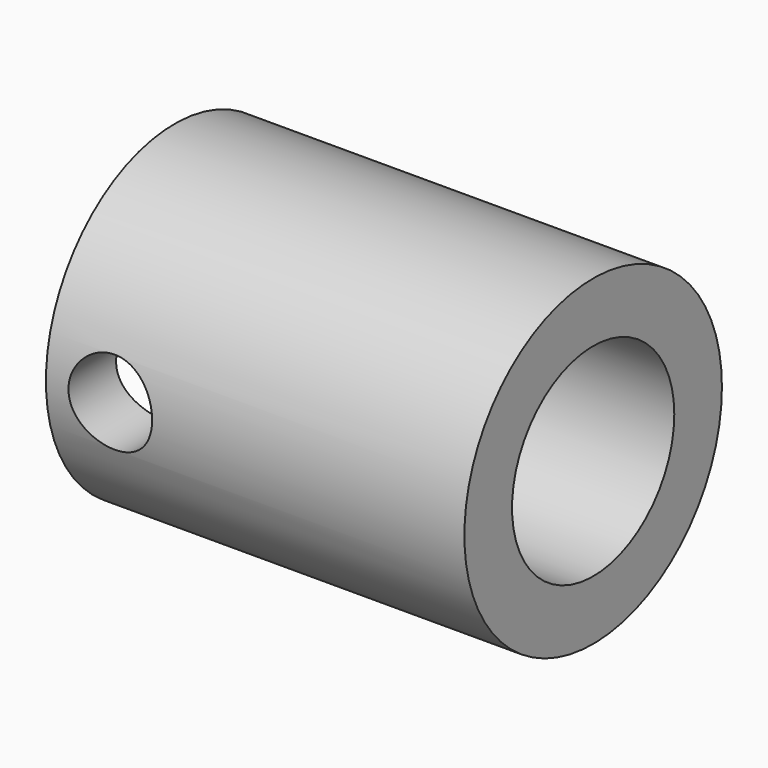
from build123d import *

# Parameters (mm, degrees)
F0_R          = 5
F0_R_2        = 3.15
F1_DEPTH      = 13
F2_R          = 1.3
F3_DEPTH      = 5.001
F3_DEPTH_BACK = 5.001


with BuildPart() as f1:
    # F0 (on Right) → F1 (new body)
    with BuildSketch(Plane.YZ):
        Circle(F0_R)
        Circle(F0_R_2, mode=Mode.SUBTRACT)
    extrude(amount=F1_DEPTH)

    # F2 (on Front) → F3 (cut, two sides)
    with BuildSketch(Plane.XZ) as f3_sk:
        with Locations((2, 0)):
            Circle(F2_R)
    extrude(amount=-F3_DEPTH, mode=Mode.SUBTRACT)
    extrude(f3_sk.sketch, amount=F3_DEPTH_BACK, mode=Mode.SUBTRACT)


solid = f1.part
